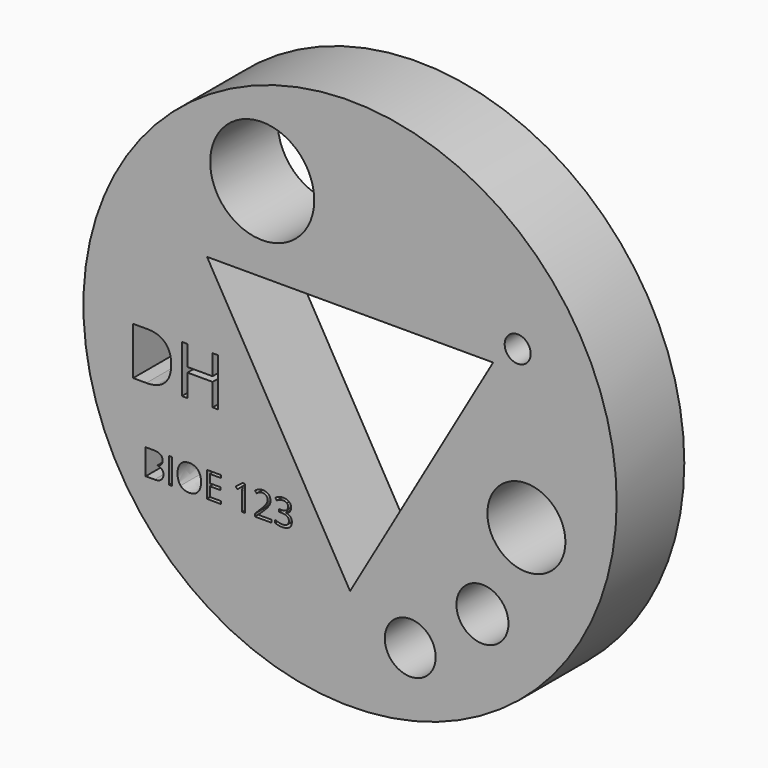
from build123d import *

# Parameters (mm, degrees)
F0_R     = 20.5
F0_W     = 0.2286061775
F0_H     = 1.9670463746
F0_R_2   = 1.9564154934
F0_R_3   = 2
F0_R_4   = 3
F0_R_5   = 4
F0_R_6   = 1
F1_DEPTH = 6.5


with BuildPart() as f1:
    # F0 (on Front) → F1 (new body)
    with BuildSketch(Plane.XZ):
        Circle(F0_R)
        with BuildLine():
            Line((-15.7141553532, -10.0360042907), (-15.7141553532, -8.0689579161))
            Line((-15.7141553532, -8.0689579161), (-15.1583538935, -8.0689579161))
            add(Edge.make_bspline(
                [(-15.1583538935, -8.0689579161), (-14.7670111151, -8.0689579161), (-14.5920046911, -8.1860593856)],
                knots=[0, 0, 0, 1, 1, 1], degree=2))
            add(Edge.make_bspline(
                [(-14.5920046911, -8.1860593856), (-14.4169982671, -8.303160855), (-14.4169982671, -8.5558761585)],
                knots=[0, 0, 0, 1, 1, 1], degree=2))
            add(Edge.make_bspline(
                [(-14.4169982671, -8.5558761585), (-14.4169982671, -8.7310978426), (-14.5145110716, -8.8447551512)],
                knots=[0, 0, 0, 1, 1, 1], degree=2))
            add(Edge.make_bspline(
                [(-14.5145110716, -8.8447551512), (-14.6120238761, -8.9584124597), (-14.7993001232, -8.9919930282)],
                knots=[0, 0, 0, 1, 1, 1], degree=2))
            Line((-14.7993001232, -8.9919930282), (-14.7993001232, -9.0053391515))
            add(Edge.make_bspline(
                [(-14.7993001232, -9.0053391515), (-14.3511286905, -9.0819717308), (-14.3511286905, -9.47632815)],
                knots=[0, 0, 0, 1, 1, 1], degree=2))
            add(Edge.make_bspline(
                [(-14.3511286905, -9.47632815), (-14.3511286905, -9.7398064562), (-14.5293640153, -9.8879053734)],
                knots=[0, 0, 0, 1, 1, 1], degree=2))
            add(Edge.make_bspline(
                [(-14.5293640153, -9.8879053734), (-14.7075993401, -10.0360042907), (-15.0279063007, -10.0360042907)],
                knots=[0, 0, 0, 1, 1, 1], degree=2))
            Line((-15.0279063007, -10.0360042907), (-15.7141553532, -10.0360042907))
        make_face(mode=Mode.SUBTRACT)
        with Locations((-13.8144853756, -9.0524811034)):
            Rectangle(F0_W, F0_H, mode=Mode.SUBTRACT)
        with BuildLine():
            add(Edge.make_bspline(
                [(-14.2223921689, -0.5059580058), (-13.7477802508, -0.9805699238), (-13.7477802508, -1.8325405134)],
                knots=[0, 0, 0, 1, 1, 1], degree=2))
            add(Edge.make_bspline(
                [(-13.7477802508, -1.8325405134), (-13.7477802508, -2.7415770575), (-14.2412801961, -3.2226189423)],
                knots=[0, 0, 0, 1, 1, 1], degree=2))
            add(Edge.make_bspline(
                [(-14.2412801961, -3.2226189423), (-14.7347801414, -3.7036608271), (-15.661499094, -3.7036608271)],
                knots=[0, 0, 0, 1, 1, 1], degree=2))
            Line((-15.661499094, -3.7036608271), (-16.6790413264, -3.7036608271))
            Line((-16.6790413264, -3.7036608271), (-16.6790413264, -0.0313460877))
            Line((-16.6790413264, -0.0313460877), (-15.5537971515, -0.0313460877))
            add(Edge.make_bspline(
                [(-15.5537971515, -0.0313460877), (-14.6970040869, -0.0313460877), (-14.2223921689, -0.5059580058)],
                knots=[0, 0, 0, 1, 1, 1], degree=2))
        make_face(mode=Mode.SUBTRACT)
        with BuildLine():
            add(Edge.make_bspline(
                [(-11.6913754618, -8.307035536), (-11.4532978419, -8.5761106036), (-11.4532978419, -9.0496827227)],
                knots=[0, 0, 0, 1, 1, 1], degree=2))
            add(Edge.make_bspline(
                [(-11.4532978419, -9.0496827227), (-11.4532978419, -9.5219632814), (-11.692236502, -9.7925451695)],
                knots=[0, 0, 0, 1, 1, 1], degree=2))
            add(Edge.make_bspline(
                [(-11.692236502, -9.7925451695), (-11.9311751621, -10.0631270575), (-12.3560985089, -10.0631270575)],
                knots=[0, 0, 0, 1, 1, 1], degree=2))
            add(Edge.make_bspline(
                [(-12.3560985089, -10.0631270575), (-12.7904932981, -10.0631270575), (-13.0266335775, -9.7972808907)],
                knots=[0, 0, 0, 1, 1, 1], degree=2))
            add(Edge.make_bspline(
                [(-13.0266335775, -9.7972808907), (-13.2627738569, -9.5314347238), (-13.2627738569, -9.047099602)],
                knots=[0, 0, 0, 1, 1, 1], degree=2))
            add(Edge.make_bspline(
                [(-13.2627738569, -9.047099602), (-13.2627738569, -8.5666391612), (-13.0259877973, -8.3022998148)],
                knots=[0, 0, 0, 1, 1, 1], degree=2))
            add(Edge.make_bspline(
                [(-13.0259877973, -8.3022998148), (-12.7892017378, -8.0379604683), (-12.3535153883, -8.0379604683)],
                knots=[0, 0, 0, 1, 1, 1], degree=2))
            add(Edge.make_bspline(
                [(-12.3535153883, -8.0379604683), (-11.9294530816, -8.0379604683), (-11.6913754618, -8.307035536)],
                knots=[0, 0, 0, 1, 1, 1], degree=2))
        make_face(mode=Mode.SUBTRACT)
        Polygon((-9.918493656, -9.8315072393), (-9.918493656, -10.0360042907), (-11.0150283717, -10.0360042907), (-11.0150283717, -8.0689579161), (-9.918493656, -8.0689579161), (-9.918493656, -8.2721634072), (-10.7864221943, -8.2721634072), (-10.7864221943, -8.9058890065), (-9.9710171092, -8.9058890065), (-9.9710171092, -9.1078029373), (-10.7864221943, -9.1078029373), (-10.7864221943, -9.8315072393), align=None, mode=Mode.SUBTRACT)
        with BuildLine():
            Line((-8.0754370727, -8.0689579161), (-8.0754370727, -10.0360042907))
            Line((-8.0754370727, -10.0360042907), (-8.2932802474, -10.0360042907))
            Line((-8.2932802474, -10.0360042907), (-8.2932802474, -8.6342308182))
            add(Edge.make_bspline(
                [(-8.2932802474, -8.6342308182), (-8.2932802474, -8.4590091342), (-8.2825172447, -8.303160855)],
                knots=[0, 0, 0, 1, 1, 1], degree=2))
            add(Edge.make_bspline(
                [(-8.2825172447, -8.303160855), (-8.3105010518, -8.3315751821), (-8.3455884406, -8.3623573699)],
                knots=[0, 0, 0, 1, 1, 1], degree=2))
            add(Edge.make_bspline(
                [(-8.3455884406, -8.3623573699), (-8.3806758294, -8.3931395576), (-8.6656801411, -8.6247593759)],
                knots=[0, 0, 0, 1, 1, 1], degree=2))
            Line((-8.6656801411, -8.6247593759), (-8.7840731708, -8.4714942173))
            Line((-8.7840731708, -8.4714942173), (-8.26357436, -8.0689579161))
            Line((-8.26357436, -8.0689579161), (-8.0754370727, -8.0689579161))
        make_face(mode=Mode.SUBTRACT)
        with BuildLine():
            Line((-6.0343412395, -9.8289241186), (-6.0343412395, -10.0360042907))
            Line((-6.0343412395, -10.0360042907), (-7.3271931245, -10.0360042907))
            Line((-7.3271931245, -10.0360042907), (-7.3271931245, -9.8435618023))
            Line((-7.3271931245, -9.8435618023), (-6.8092774343, -9.3230629914))
            add(Edge.make_bspline(
                [(-6.8092774343, -9.3230629914), (-6.5724913748, -9.0832632911), (-6.4971503558, -8.9810147654)],
                knots=[0, 0, 0, 1, 1, 1], degree=2))
            add(Edge.make_bspline(
                [(-6.4971503558, -8.9810147654), (-6.4218093369, -8.8787662397), (-6.3841388274, -8.7818992154)],
                knots=[0, 0, 0, 1, 1, 1], degree=2))
            add(Edge.make_bspline(
                [(-6.3841388274, -8.7818992154), (-6.346468318, -8.685032191), (-6.346468318, -8.573527483)],
                knots=[0, 0, 0, 1, 1, 1], degree=2))
            add(Edge.make_bspline(
                [(-6.346468318, -8.573527483), (-6.346468318, -8.4159571234), (-6.442043782, -8.3238258202)],
                knots=[0, 0, 0, 1, 1, 1], degree=2))
            add(Edge.make_bspline(
                [(-6.442043782, -8.3238258202), (-6.537619246, -8.231694517), (-6.7072441687, -8.231694517)],
                knots=[0, 0, 0, 1, 1, 1], degree=2))
            add(Edge.make_bspline(
                [(-6.7072441687, -8.231694517), (-6.8295118794, -8.231694517), (-6.939294507, -8.2721634072)],
                knots=[0, 0, 0, 1, 1, 1], degree=2))
            add(Edge.make_bspline(
                [(-6.939294507, -8.2721634072), (-7.0490771346, -8.3126322974), (-7.1833994084, -8.4189707641)],
                knots=[0, 0, 0, 1, 1, 1], degree=2))
            Line((-7.1833994084, -8.4189707641), (-7.3017924381, -8.2669971659))
            add(Edge.make_bspline(
                [(-7.3017924381, -8.2669971659), (-7.0301342498, -8.0409741091), (-6.7098272893, -8.0409741091)],
                knots=[0, 0, 0, 1, 1, 1], degree=2))
            add(Edge.make_bspline(
                [(-6.7098272893, -8.0409741091), (-6.4325723396, -8.0409741091), (-6.27521724, -8.1828304847)],
                knots=[0, 0, 0, 1, 1, 1], degree=2))
            add(Edge.make_bspline(
                [(-6.27521724, -8.1828304847), (-6.1178621405, -8.3246868604), (-6.1178621405, -8.5640560406)],
                knots=[0, 0, 0, 1, 1, 1], degree=2))
            add(Edge.make_bspline(
                [(-6.1178621405, -8.5640560406), (-6.1178621405, -8.7513322877), (-6.2229090469, -8.9343033337)],
                knots=[0, 0, 0, 1, 1, 1], degree=2))
            add(Edge.make_bspline(
                [(-6.2229090469, -8.9343033337), (-6.3279559533, -9.1172743797), (-6.6155433856, -9.39711245)],
                knots=[0, 0, 0, 1, 1, 1], degree=2))
            Line((-6.6155433856, -9.39711245), (-7.0460634939, -9.8181611159))
            Line((-7.0460634939, -9.8181611159), (-7.0460634939, -9.8289241186))
            Line((-7.0460634939, -9.8289241186), (-6.0343412395, -9.8289241186))
        make_face(mode=Mode.SUBTRACT)
        with BuildLine():
            add(Edge.make_bspline(
                [(-4.691979542, -8.172067482), (-4.533117622, -8.303160855), (-4.533117622, -8.5317670325)],
                knots=[0, 0, 0, 1, 1, 1], degree=2))
            add(Edge.make_bspline(
                [(-4.533117622, -8.5317670325), (-4.533117622, -8.7203348399), (-4.6388103086, -8.84001943)],
                knots=[0, 0, 0, 1, 1, 1], degree=2))
            add(Edge.make_bspline(
                [(-4.6388103086, -8.84001943), (-4.7445029952, -8.9597040201), (-4.9382370439, -9.0001729102)],
                knots=[0, 0, 0, 1, 1, 1], degree=2))
            Line((-4.9382370439, -9.0001729102), (-4.9382370439, -9.0109359129))
            add(Edge.make_bspline(
                [(-4.9382370439, -9.0109359129), (-4.7014509844, -9.0402112803), (-4.5871478956, -9.1614026908)],
                knots=[0, 0, 0, 1, 1, 1], degree=2))
            add(Edge.make_bspline(
                [(-4.5871478956, -9.1614026908), (-4.4728448069, -9.2825941012), (-4.4728448069, -9.4789112706)],
                knots=[0, 0, 0, 1, 1, 1], degree=2))
            add(Edge.make_bspline(
                [(-4.4728448069, -9.4789112706), (-4.4728448069, -9.7600409013), (-4.6678704159, -9.9115839794)],
                knots=[0, 0, 0, 1, 1, 1], degree=2))
            add(Edge.make_bspline(
                [(-4.6678704159, -9.9115839794), (-4.862896025, -10.0631270575), (-5.2219497952, -10.0631270575)],
                knots=[0, 0, 0, 1, 1, 1], degree=2))
            add(Edge.make_bspline(
                [(-5.2219497952, -10.0631270575), (-5.3782285945, -10.0631270575), (-5.5080304072, -10.0394484515)],
                knots=[0, 0, 0, 1, 1, 1], degree=2))
            add(Edge.make_bspline(
                [(-5.5080304072, -10.0394484515), (-5.6378322198, -10.0157698456), (-5.7600999305, -9.9567885908)],
                knots=[0, 0, 0, 1, 1, 1], degree=2))
            Line((-5.7600999305, -9.9567885908), (-5.7600999305, -9.7441116573))
            add(Edge.make_bspline(
                [(-5.7600999305, -9.7441116573), (-5.6322354584, -9.8073981132), (-5.487580702, -9.8403329015)],
                knots=[0, 0, 0, 1, 1, 1], degree=2))
            add(Edge.make_bspline(
                [(-5.487580702, -9.8403329015), (-5.3429259456, -9.8732676898), (-5.2137699132, -9.8732676898)],
                knots=[0, 0, 0, 1, 1, 1], degree=2))
            add(Edge.make_bspline(
                [(-5.2137699132, -9.8732676898), (-4.704034105, -9.8732676898), (-4.704034105, -9.4737450293)],
                knots=[0, 0, 0, 1, 1, 1], degree=2))
            add(Edge.make_bspline(
                [(-4.704034105, -9.4737450293), (-4.704034105, -9.1155522992), (-5.2662933664, -9.1155522992)],
                knots=[0, 0, 0, 1, 1, 1], degree=2))
            Line((-5.2662933664, -9.1155522992), (-5.4600274151, -9.1155522992))
            Line((-5.4600274151, -9.1155522992), (-5.4600274151, -8.923540331))
            Line((-5.4600274151, -8.923540331), (-5.2637102457, -8.923540331))
            add(Edge.make_bspline(
                [(-5.2637102457, -8.923540331), (-5.0338125079, -8.923540331), (-4.8992749741, -8.8219375854)],
                knots=[0, 0, 0, 1, 1, 1], degree=2))
            add(Edge.make_bspline(
                [(-4.8992749741, -8.8219375854), (-4.7647374403, -8.7203348399), (-4.7647374403, -8.5399469145)],
                knots=[0, 0, 0, 1, 1, 1], degree=2))
            add(Edge.make_bspline(
                [(-4.7647374403, -8.5399469145), (-4.7647374403, -8.3961531984), (-4.8635418051, -8.3139238577)],
                knots=[0, 0, 0, 1, 1, 1], degree=2))
            add(Edge.make_bspline(
                [(-4.8635418051, -8.3139238577), (-4.96234617, -8.231694517), (-5.1319710926, -8.231694517)],
                knots=[0, 0, 0, 1, 1, 1], degree=2))
            add(Edge.make_bspline(
                [(-5.1319710926, -8.231694517), (-5.2611271251, -8.231694517), (-5.3754302138, -8.2667819059)],
                knots=[0, 0, 0, 1, 1, 1], degree=2))
            add(Edge.make_bspline(
                [(-5.3754302138, -8.2667819059), (-5.4897333026, -8.3018692947), (-5.6365406595, -8.3961531984)],
                knots=[0, 0, 0, 1, 1, 1], degree=2))
            Line((-5.6365406595, -8.3961531984), (-5.7493369278, -8.2454711605))
            add(Edge.make_bspline(
                [(-5.7493369278, -8.2454711605), (-5.6283607774, -8.1498956965), (-5.4703598977, -8.0954349028)],
                knots=[0, 0, 0, 1, 1, 1], degree=2))
            add(Edge.make_bspline(
                [(-5.4703598977, -8.0954349028), (-5.312359018, -8.0409741091), (-5.1371373339, -8.0409741091)],
                knots=[0, 0, 0, 1, 1, 1], degree=2))
            add(Edge.make_bspline(
                [(-5.1371373339, -8.0409741091), (-4.8508414619, -8.0409741091), (-4.691979542, -8.172067482)],
                knots=[0, 0, 0, 1, 1, 1], degree=2))
        make_face(mode=Mode.SUBTRACT)
        Polygon((-10.1405689245, -0.0313460877), (-10.1405689245, -3.7036608271), (-10.5673579651, -3.7036608271), (-10.5673579651, -1.9756072728), (-12.5019742001, -1.9756072728), (-12.5019742001, -3.7036608271), (-12.9287632407, -3.7036608271), (-12.9287632407, -0.0313460877), (-12.5019742001, -0.0313460877), (-12.5019742001, -1.5938279991), (-10.5673579651, -1.5938279991), (-10.5673579651, -0.0313460877), align=None, mode=Mode.SUBTRACT)
        with Locations((4.6248330204, -15.0300868977)):
            Circle(F0_R_2, mode=Mode.SUBTRACT)
        with Locations((10.1789670949, -10.9493052861)):
            Circle(F0_R_3, mode=Mode.SUBTRACT)
        Polygon((10.9985226281, 6.35), (0, -12.7), (-10.9985226281, 6.35), align=None, mode=Mode.SUBTRACT)
        with Locations((13.55802448, -3.9933444524)):
            Circle(F0_R_4, mode=Mode.SUBTRACT)
        with Locations((-6.7538160322, 12.855709396)):
            Circle(F0_R_5, mode=Mode.SUBTRACT)
        with Locations((12.8872801752, 7.8778741881)):
            Circle(F0_R_6, mode=Mode.SUBTRACT)
    extrude(amount=F1_DEPTH)


solid = f1.part
